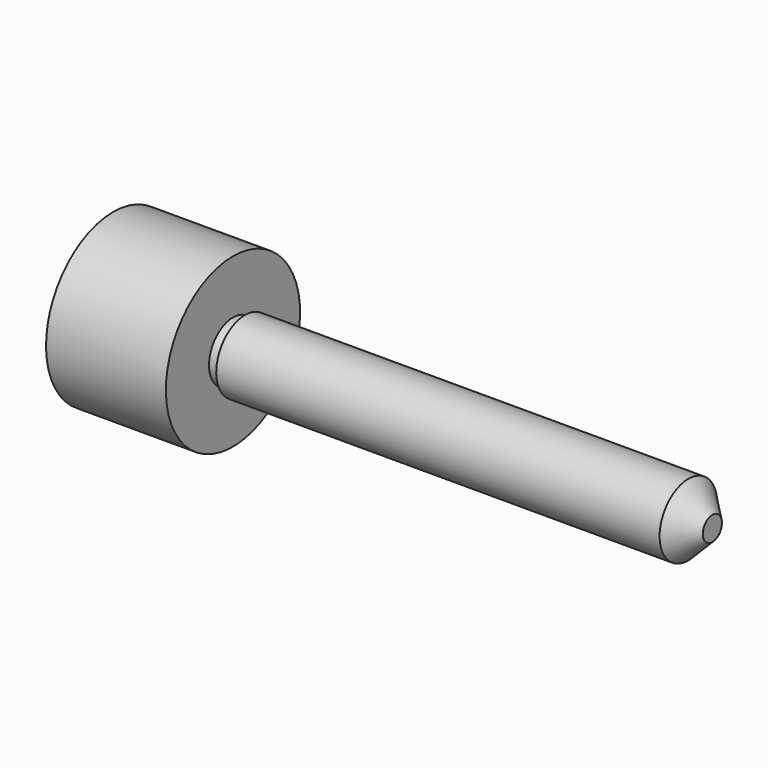
from build123d import *

# Parameters (mm, degrees)
F2_SIZE = 2


with BuildPart() as f1:
    # F0 (on Front) → F1 (revolve)
    with BuildSketch(Plane.XZ):
        Polygon((0, 7), (0, 0), (50, 0), (50, 3), (11, 3), (11, 2.5), (10, 2.5), (10, 7), align=None)
    revolve(axis=Axis((24.256996, 0, 0), (1, 0, 0)))

    # F2
    f2_edges = [f1.edges().sort_by_distance(p)[0] for p in [
        (50, 0, -3),
    ]]
    chamfer(f2_edges, length=F2_SIZE)


solid = f1.part
